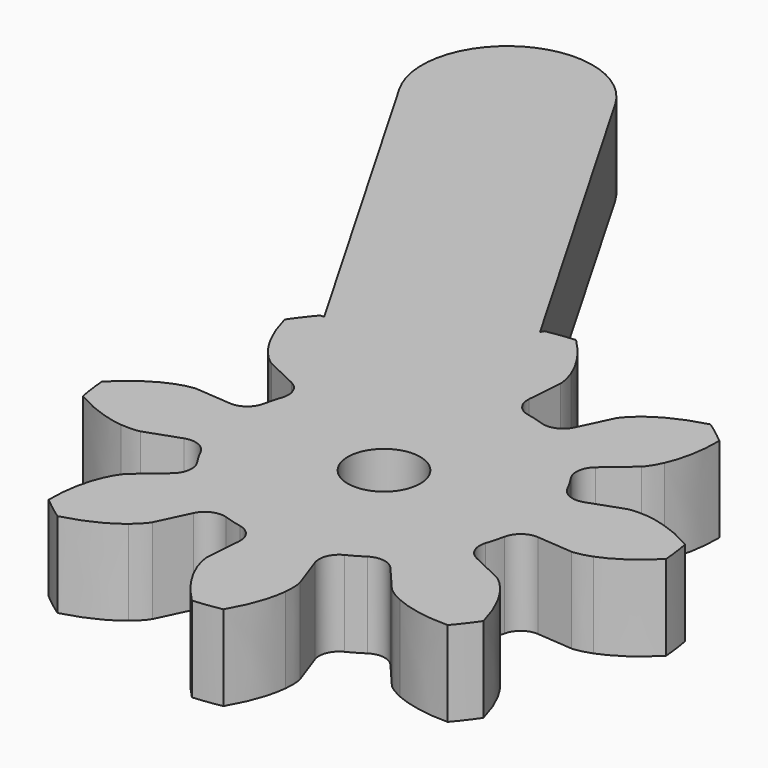
from build123d import *

# Parameters (mm, degrees)
CYLINDER005_R              = 1.7
CYLINDER005_DEPTH          = 10
EXTRUDE012_DEPTH           = 4
EXTRUDE010_DEPTH           = 4
EXTRUDE010_PLACEMENT_ANGLE = 22.5
CUT006_PLACEMENT_ANGLE     = 30


with BuildPart() as cylinder005:
    # Cylinder005 → Cylinder005 (new body)
    with BuildSketch(Plane.XY.offset(-4)):
        Circle(CYLINDER005_R)
    extrude(amount=CYLINDER005_DEPTH)


with BuildPart() as link002:
    # Sketch005 → Extrude012 (new body)
    with BuildSketch(Plane.XY):
        with BuildLine():
            ThreePointArc((-4, 0), (0, -4), (4, 0))
            Line((4, 0), (4, 30))
            ThreePointArc((4, 30), (0, 34), (-4, 30))
            Line((-4, 0), (-4, 30))
        make_face()
    extrude(amount=EXTRUDE012_DEPTH)


with BuildPart() as cut006:
    # InvoluteGear005 → Extrude010 (new body)
    with BuildSketch(Plane.XY):
        with BuildLine():
            Line((7.583619, -1.626335), (9.226112, -1.976129))
            add(Edge.make_bspline(
                [(9.226112, -1.976129), (9.323588, -1.988042), (9.615448, -2.006593), (10.112858, -1.891348)],
                knots=[0, 0, 0, 0, 1, 1, 1, 1], degree=3))
            add(Edge.make_bspline(
                [(10.112858, -1.891348), (10.701098, -1.749257), (11.528547, -1.419904), (12.486309, -0.674071)],
                knots=[0, 0, 0, 0, 1, 1, 1, 1], degree=3))
            ThreePointArc((12.486309, -0.674071), (12.504498, 0), (12.486309, 0.674071))
            add(Edge.make_bspline(
                [(12.486309, 0.674071), (11.528547, 1.419904), (10.701098, 1.749257), (10.112858, 1.891348)],
                knots=[0, 0, 0, 0, 1, 1, 1, 1], degree=3))
            add(Edge.make_bspline(
                [(10.112858, 1.891348), (9.615448, 2.006593), (9.323588, 1.988042), (9.226112, 1.976129)],
                knots=[0, 0, 0, 0, 1, 1, 1, 1], degree=3))
            Line((9.226112, 1.976129), (7.583619, 1.626335))
            ThreePointArc((7.583619, 1.626335), (6.928673, 1.725171), (6.502518, 2.232237))
            ThreePointArc((6.502518, 2.232237), (6.351672, 2.630949), (6.176404, 3.019545))
            ThreePointArc((6.176404, 3.019545), (6.119192, 3.679432), (6.512421, 4.212436))
            Line((6.512421, 4.212436), (7.92118, 5.126512))
            add(Edge.make_bspline(
                [(7.92118, 5.126512), (7.99853, 5.187015), (8.218024, 5.380273), (8.488255, 5.813485)],
                knots=[0, 0, 0, 0, 1, 1, 1, 1], degree=3))
            add(Edge.make_bspline(
                [(8.488255, 5.813485), (8.803731, 6.329908), (9.155937, 7.14789), (9.305795, 8.352514)],
                knots=[0, 0, 0, 0, 1, 1, 1, 1], degree=3))
            ThreePointArc((9.305795, 8.352514), (8.842015, 8.842015), (8.352514, 9.305795))
            add(Edge.make_bspline(
                [(8.352514, 9.305795), (7.14789, 9.155937), (6.329908, 8.803731), (5.813485, 8.488255)],
                knots=[0, 0, 0, 0, 1, 1, 1, 1], degree=3))
            add(Edge.make_bspline(
                [(5.813485, 8.488255), (5.380273, 8.218024), (5.187015, 7.99853), (5.126512, 7.92118)],
                knots=[0, 0, 0, 0, 1, 1, 1, 1], degree=3))
            Line((5.126512, 7.92118), (4.212436, 6.512421))
            ThreePointArc((4.212436, 6.512421), (3.679432, 6.119192), (3.019545, 6.176404))
            ThreePointArc((3.019545, 6.176404), (2.630949, 6.351672), (2.232237, 6.502518))
            ThreePointArc((2.232237, 6.502518), (1.725171, 6.928673), (1.626335, 7.583619))
            Line((1.626335, 7.583619), (1.976129, 9.226112))
            add(Edge.make_bspline(
                [(1.976129, 9.226112), (1.988042, 9.323588), (2.006593, 9.615448), (1.891348, 10.112858)],
                knots=[0, 0, 0, 0, 1, 1, 1, 1], degree=3))
            add(Edge.make_bspline(
                [(1.891348, 10.112858), (1.749257, 10.701098), (1.419904, 11.528547), (0.674071, 12.486309)],
                knots=[0, 0, 0, 0, 1, 1, 1, 1], degree=3))
            ThreePointArc((0.674071, 12.486309), (0, 12.504498), (-0.674071, 12.486309))
            add(Edge.make_bspline(
                [(-0.674071, 12.486309), (-1.419904, 11.528547), (-1.749257, 10.701098), (-1.891348, 10.112858)],
                knots=[0, 0, 0, 0, 1, 1, 1, 1], degree=3))
            add(Edge.make_bspline(
                [(-1.891348, 10.112858), (-2.006593, 9.615448), (-1.988042, 9.323588), (-1.976129, 9.226112)],
                knots=[0, 0, 0, 0, 1, 1, 1, 1], degree=3))
            Line((-1.976129, 9.226112), (-1.626335, 7.583619))
            ThreePointArc((-1.626335, 7.583619), (-1.725171, 6.928673), (-2.232237, 6.502518))
            ThreePointArc((-2.232237, 6.502518), (-2.630949, 6.351672), (-3.019545, 6.176404))
            ThreePointArc((-3.019545, 6.176404), (-3.679432, 6.119192), (-4.212436, 6.512421))
            Line((-4.212436, 6.512421), (-5.126512, 7.92118))
            add(Edge.make_bspline(
                [(-5.126512, 7.92118), (-5.187015, 7.99853), (-5.380273, 8.218024), (-5.813485, 8.488255)],
                knots=[0, 0, 0, 0, 1, 1, 1, 1], degree=3))
            add(Edge.make_bspline(
                [(-5.813485, 8.488255), (-6.329908, 8.803731), (-7.14789, 9.155937), (-8.352514, 9.305795)],
                knots=[0, 0, 0, 0, 1, 1, 1, 1], degree=3))
            ThreePointArc((-8.352514, 9.305795), (-8.842015, 8.842015), (-9.305795, 8.352514))
            add(Edge.make_bspline(
                [(-9.305795, 8.352514), (-9.155937, 7.14789), (-8.803731, 6.329908), (-8.488255, 5.813485)],
                knots=[0, 0, 0, 0, 1, 1, 1, 1], degree=3))
            add(Edge.make_bspline(
                [(-8.488255, 5.813485), (-8.218024, 5.380273), (-7.99853, 5.187015), (-7.92118, 5.126512)],
                knots=[0, 0, 0, 0, 1, 1, 1, 1], degree=3))
            Line((-7.92118, 5.126512), (-6.512421, 4.212436))
            ThreePointArc((-6.512421, 4.212436), (-6.119192, 3.679432), (-6.176404, 3.019545))
            ThreePointArc((-6.176404, 3.019545), (-6.351672, 2.630949), (-6.502518, 2.232237))
            ThreePointArc((-6.502518, 2.232237), (-6.928673, 1.725171), (-7.583619, 1.626335))
            Line((-7.583619, 1.626335), (-9.226112, 1.976129))
            add(Edge.make_bspline(
                [(-9.226112, 1.976129), (-9.323588, 1.988042), (-9.615448, 2.006593), (-10.112858, 1.891348)],
                knots=[0, 0, 0, 0, 1, 1, 1, 1], degree=3))
            add(Edge.make_bspline(
                [(-10.112858, 1.891348), (-10.701098, 1.749257), (-11.528547, 1.419904), (-12.486309, 0.674071)],
                knots=[0, 0, 0, 0, 1, 1, 1, 1], degree=3))
            ThreePointArc((-12.486309, 0.674071), (-12.504498, 0), (-12.486309, -0.674071))
            add(Edge.make_bspline(
                [(-12.486309, -0.674071), (-11.528547, -1.419904), (-10.701098, -1.749257), (-10.112858, -1.891348)],
                knots=[0, 0, 0, 0, 1, 1, 1, 1], degree=3))
            add(Edge.make_bspline(
                [(-10.112858, -1.891348), (-9.615448, -2.006593), (-9.323588, -1.988042), (-9.226112, -1.976129)],
                knots=[0, 0, 0, 0, 1, 1, 1, 1], degree=3))
            Line((-9.226112, -1.976129), (-7.583619, -1.626335))
            ThreePointArc((-7.583619, -1.626335), (-6.928673, -1.725171), (-6.502518, -2.232237))
            ThreePointArc((-6.502518, -2.232237), (-6.351672, -2.630949), (-6.176404, -3.019545))
            ThreePointArc((-6.176404, -3.019545), (-6.119192, -3.679432), (-6.512421, -4.212436))
            Line((-6.512421, -4.212436), (-7.92118, -5.126512))
            add(Edge.make_bspline(
                [(-7.92118, -5.126512), (-7.99853, -5.187015), (-8.218024, -5.380273), (-8.488255, -5.813485)],
                knots=[0, 0, 0, 0, 1, 1, 1, 1], degree=3))
            add(Edge.make_bspline(
                [(-8.488255, -5.813485), (-8.803731, -6.329908), (-9.155937, -7.14789), (-9.305795, -8.352514)],
                knots=[0, 0, 0, 0, 1, 1, 1, 1], degree=3))
            ThreePointArc((-9.305795, -8.352514), (-8.842015, -8.842015), (-8.352514, -9.305795))
            add(Edge.make_bspline(
                [(-8.352514, -9.305795), (-7.14789, -9.155937), (-6.329908, -8.803731), (-5.813485, -8.488255)],
                knots=[0, 0, 0, 0, 1, 1, 1, 1], degree=3))
            add(Edge.make_bspline(
                [(-5.813485, -8.488255), (-5.380273, -8.218024), (-5.187015, -7.99853), (-5.126512, -7.92118)],
                knots=[0, 0, 0, 0, 1, 1, 1, 1], degree=3))
            Line((-5.126512, -7.92118), (-4.212436, -6.512421))
            ThreePointArc((-4.212436, -6.512421), (-3.679432, -6.119192), (-3.019545, -6.176404))
            ThreePointArc((-3.019545, -6.176404), (-2.630949, -6.351672), (-2.232237, -6.502518))
            ThreePointArc((-2.232237, -6.502518), (-1.725171, -6.928673), (-1.626335, -7.583619))
            Line((-1.626335, -7.583619), (-1.976129, -9.226112))
            add(Edge.make_bspline(
                [(-1.976129, -9.226112), (-1.988042, -9.323588), (-2.006593, -9.615448), (-1.891348, -10.112858)],
                knots=[0, 0, 0, 0, 1, 1, 1, 1], degree=3))
            add(Edge.make_bspline(
                [(-1.891348, -10.112858), (-1.749257, -10.701098), (-1.419904, -11.528547), (-0.674071, -12.486309)],
                knots=[0, 0, 0, 0, 1, 1, 1, 1], degree=3))
            ThreePointArc((-0.674071, -12.486309), (0, -12.504498), (0.674071, -12.486309))
            add(Edge.make_bspline(
                [(0.674071, -12.486309), (1.419904, -11.528547), (1.749257, -10.701098), (1.891348, -10.112858)],
                knots=[0, 0, 0, 0, 1, 1, 1, 1], degree=3))
            add(Edge.make_bspline(
                [(1.891348, -10.112858), (2.006593, -9.615448), (1.988042, -9.323588), (1.976129, -9.226112)],
                knots=[0, 0, 0, 0, 1, 1, 1, 1], degree=3))
            Line((1.976129, -9.226112), (1.626335, -7.583619))
            ThreePointArc((1.626335, -7.583619), (1.725171, -6.928673), (2.232237, -6.502518))
            ThreePointArc((2.232237, -6.502518), (2.630949, -6.351672), (3.019545, -6.176404))
            ThreePointArc((3.019545, -6.176404), (3.679432, -6.119192), (4.212436, -6.512421))
            Line((4.212436, -6.512421), (5.126512, -7.92118))
            add(Edge.make_bspline(
                [(5.126512, -7.92118), (5.187015, -7.99853), (5.380273, -8.218024), (5.813485, -8.488255)],
                knots=[0, 0, 0, 0, 1, 1, 1, 1], degree=3))
            add(Edge.make_bspline(
                [(5.813485, -8.488255), (6.329908, -8.803731), (7.14789, -9.155937), (8.352514, -9.305795)],
                knots=[0, 0, 0, 0, 1, 1, 1, 1], degree=3))
            ThreePointArc((8.352514, -9.305795), (8.842015, -8.842015), (9.305795, -8.352514))
            add(Edge.make_bspline(
                [(9.305795, -8.352514), (9.155937, -7.14789), (8.803731, -6.329908), (8.488255, -5.813485)],
                knots=[0, 0, 0, 0, 1, 1, 1, 1], degree=3))
            add(Edge.make_bspline(
                [(8.488255, -5.813485), (8.218024, -5.380273), (7.99853, -5.187015), (7.92118, -5.126512)],
                knots=[0, 0, 0, 0, 1, 1, 1, 1], degree=3))
            Line((7.92118, -5.126512), (6.512421, -4.212436))
            ThreePointArc((6.512421, -4.212436), (6.119192, -3.679432), (6.176404, -3.019545))
            ThreePointArc((6.176404, -3.019545), (6.351672, -2.630949), (6.502518, -2.232237))
            ThreePointArc((6.502518, -2.232237), (6.928673, -1.725171), (7.583619, -1.626335))
        make_face()
    extrude(amount=EXTRUDE010_DEPTH)


with BuildPart() as cut006_1:
    # Extrude010 placement: moved
    add(cut006.part.rotate(Axis((0, 0, 0), (0, 0, 1)), EXTRUDE010_PLACEMENT_ANGLE))

    # Fusion002: union link002
    add(link002.part)

    # Cut006: cut Cylinder005
    add(cylinder005.part, mode=Mode.SUBTRACT)


with BuildPart() as cut006_2:
    # Cut006 placement: moved
    add(cut006_1.part.rotate(Axis((0, 0, 0), (0, 0, 1)), CUT006_PLACEMENT_ANGLE))


solid = cut006_2.part
